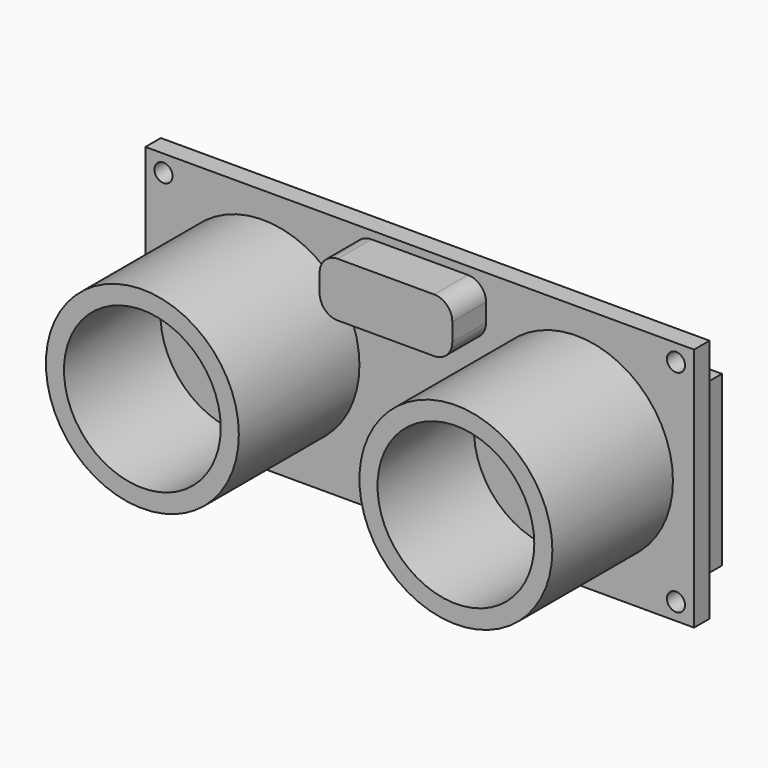
from build123d import *

# Parameters (mm, degrees)
SKETCH_W        = 45.5
SKETCH_H        = 20.3
PAD_DEPTH       = 1.6
SKETCH001_R     = 0.75
POCKET_DEPTH    = 5
SKETCH002_R     = 8
PAD001_DEPTH    = 12.5
SKETCH003_R     = 6.5
POCKET001_DEPTH = 10
SKETCH004_R     = 8
PAD002_DEPTH    = 12.5
SKETCH005_R     = 6.5
POCKET002_DEPTH = 10
SKETCH006_W     = 11
SKETCH006_H     = 4.5
PAD003_DEPTH    = 3.5
FILLET_R        = 1.5
SKETCH007_W     = 10.3
SKETCH007_H     = 2.5
PAD004_DEPTH    = 2.4
SKETCH008_W     = 8.35
SKETCH008_H     = 7.9
PAD005_DEPTH    = 4.2
SKETCH009_W     = 20
SKETCH009_H     = 3
POCKET003_DEPTH = 8.351
SKETCH010_W     = 45
SKETCH010_H     = 14
PAD006_DEPTH    = 1.6


with BuildPart() as mainboard:
    # Sketch → Pad (new body)
    with BuildSketch(Plane.XZ):
        Rectangle(SKETCH_W, SKETCH_H)
    extrude(amount=-PAD_DEPTH)

    # Sketch001 → Pocket (cut)
    with BuildSketch(Plane.XZ):
        with Locations((-21.25, 8.75)):
            Circle(SKETCH001_R)
        with Locations((21.25, 8.75)):
            Circle(SKETCH001_R)
        with Locations((21.25, -8.75)):
            Circle(SKETCH001_R)
        with Locations((-21.25, -8.75)):
            Circle(SKETCH001_R)
    extrude(amount=-POCKET_DEPTH, mode=Mode.SUBTRACT)


with BuildPart() as obj1:
    # Sketch002 → Pad001 (new body)
    with BuildSketch(Plane.XZ):
        with Locations((-13, 0)):
            Circle(SKETCH002_R)
    extrude(amount=PAD001_DEPTH)

    # Sketch003 (on Face3 of Pad001) → Pocket001 (cut)
    with BuildSketch(Plane.XZ.offset(12.5)):
        with Locations((-13, 0)):
            Circle(SKETCH003_R)
    extrude(amount=-POCKET001_DEPTH, mode=Mode.SUBTRACT)


with BuildPart() as obj2:
    # Sketch004 → Pad002 (new body)
    with BuildSketch(Plane.XZ):
        with Locations((13, 0)):
            Circle(SKETCH004_R)
    extrude(amount=PAD002_DEPTH)

    # Sketch005 (on Face3 of Pad002) → Pocket002 (cut)
    with BuildSketch(Plane.XZ.offset(12.5)):
        with Locations((13, 0)):
            Circle(SKETCH005_R)
    extrude(amount=-POCKET002_DEPTH, mode=Mode.SUBTRACT)


with BuildPart() as obj3:
    # Sketch006 → Pad003 (new body)
    with BuildSketch(Plane.XZ):
        with Locations((0, 7.25)):
            Rectangle(SKETCH006_W, SKETCH006_H)
    extrude(amount=PAD003_DEPTH)

    # Fillet
    fillet_edges = [obj3.edges().sort_by_distance(p)[0] for p in [
        (-5.5, -1.75, 9.5),
        (5.5, -1.75, 9.5),
        (5.5, -1.75, 5),
        (-5.5, -1.75, 5),
    ]]
    fillet(fillet_edges, radius=FILLET_R)


with BuildPart() as pinblock:
    # Sketch007 (on DatumPlane) → Pad004 (new body)
    with BuildSketch(Plane.XZ.offset(-1.6)):
        with Locations((0, -8.9)):
            Rectangle(SKETCH007_W, SKETCH007_H)
    extrude(amount=-PAD004_DEPTH)


with BuildPart() as pins:
    # Sketch008 (on DatumPlane) → Pad005 (new body)
    with BuildSketch(Plane.XZ.offset(-1.6)):
        with Locations((0, -12.65)):
            Rectangle(SKETCH008_W, SKETCH008_H)
    extrude(amount=-PAD005_DEPTH)

    # Sketch009 (on Face4 of Pad005) → Pocket003 (cut, through all)
    with BuildSketch(Plane(origin=(-4.175, 1.6, 0), x_dir=(0, 0, -1), z_dir=(-1, 0, 0))):
        with Locations((20, -1.5)):
            Rectangle(SKETCH009_W, SKETCH009_H)
    extrude(amount=-POCKET003_DEPTH, mode=Mode.SUBTRACT)


with BuildPart() as backsolderchips:
    # Sketch010 (on Face1 of CopyPocket) → Pad006 (new body)
    with BuildSketch(Plane(origin=(0, 1.6, 0), x_dir=(1, 0, 0), z_dir=(0, 1, 0))):
        Rectangle(SKETCH010_W, SKETCH010_H)
    extrude(amount=PAD006_DEPTH)


solid = Compound([mainboard.part, obj1.part, obj2.part, obj3.part, pinblock.part, pins.part, backsolderchips.part])
